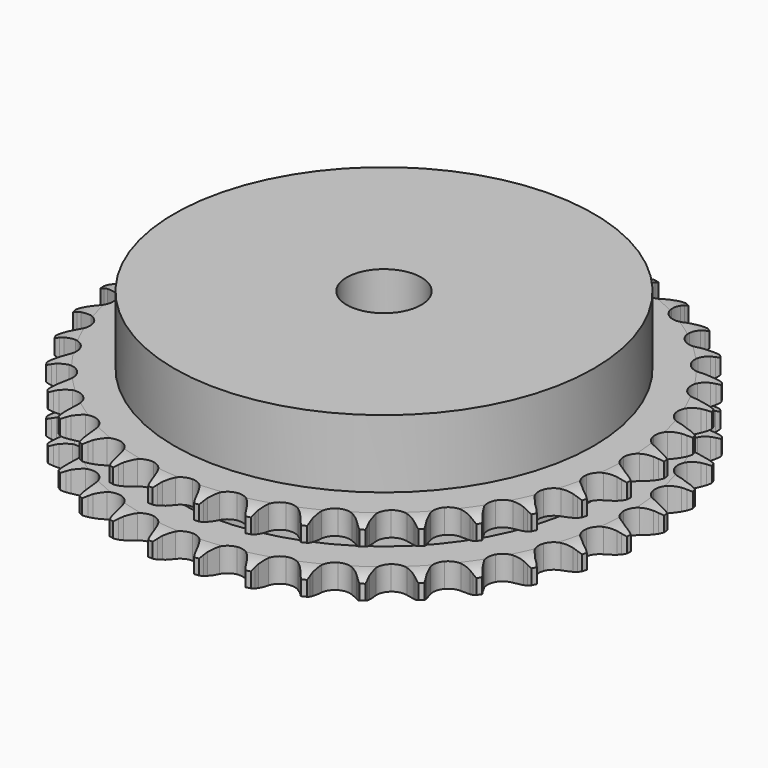
from build123d import *

# Parameters (mm, degrees)
PAD_DEPTH         = 15.4
SKETCH001_R       = 45
PAD001_DEPTH      = 30
SKETCH002_R       = 8
POCKET_DEPTH      = 0.001
POCKET_DEPTH_BACK = 30.001


with BuildPart() as part:
    # Sprocket → Pad (new body)
    with BuildSketch(Plane.XY):
        with BuildLine():
            ThreePointArc((-5.011548, 57.28225), (-4.445116, 56.509908), (-4.031769, 55.645904))
            Line((-4.031769, 55.645904), (-3.722016, 54.805027))
            ThreePointArc((-3.722016, 54.805027), (-3.231124, 53.719507), (-2.590036, 52.715349))
            ThreePointArc((-2.590036, 52.715349), (-1.449161, 51.758042), (0, 51.414584))
            ThreePointArc((0, 51.414584), (1.449161, 51.758042), (2.590036, 52.715349))
            ThreePointArc((2.590036, 52.715349), (3.231124, 53.719507), (3.722016, 54.805027))
            Line((3.722016, 54.805027), (4.031769, 55.645904))
            ThreePointArc((4.031769, 55.645904), (4.445116, 56.509908), (5.011548, 57.28225))
            ThreePointArc((5.011548, 57.28225), (5.435258, 56.423282), (5.692293, 55.500627))
            Line((5.692293, 55.500627), (5.851323, 54.618736))
            ThreePointArc((5.851323, 54.618736), (6.146258, 53.464466), (6.603237, 52.36424))
            ThreePointArc((6.603237, 52.36424), (7.560544, 51.223365), (8.928049, 50.633481))
            ThreePointArc((8.928049, 50.633481), (10.414835, 50.720077), (11.704612, 51.46473))
            Line((11.704612, 51.46473), (13.182263, 53.326094))
            ThreePointArc((13.182263, 53.326094), (13.397349, 53.719336), (13.633327, 54.100408))
            ThreePointArc((13.633327, 54.100408), (14.190427, 54.879509), (14.882369, 55.541758))
            ThreePointArc((14.882369, 55.541758), (15.150484, 54.622262), (15.243397, 53.668991))
            Line((15.243397, 53.668991), (15.246872, 52.772884))
            ThreePointArc((15.246872, 52.772884), (15.33689, 51.584934), (15.595874, 50.422069))
            ThreePointArc((15.595874, 50.422069), (16.340527, 49.132292), (17.584824, 48.313905))
            ThreePointArc((17.584824, 48.313905), (19.064059, 48.141008), (20.463549, 48.65038))
            Line((20.463549, 48.65038), (22.241974, 50.226875))
            ThreePointArc((22.241974, 50.226875), (22.522078, 50.576794), (22.820643, 50.911099))
            ThreePointArc((22.820643, 50.911099), (23.504569, 51.581624), (24.300998, 52.113658))
            ThreePointArc((24.300998, 52.113658), (24.405371, 51.161574), (24.331338, 50.206651))
            Line((24.331338, 50.206651), (24.179153, 49.323553))
            ThreePointArc((24.179153, 49.323553), (24.061518, 48.13802), (24.114638, 46.947849))
            ThreePointArc((24.114638, 46.947849), (24.62401, 45.54836), (25.707292, 44.526336))
            ThreePointArc((25.707292, 44.526336), (27.134031, 44.099198), (28.600711, 44.357814))
            Line((28.600711, 44.357814), (30.625874, 45.601537))
            ThreePointArc((30.625874, 45.601537), (30.962485, 45.897501), (31.314566, 46.174882))
            ThreePointArc((31.314566, 46.174882), (32.104537, 46.716458), (32.981253, 47.10211))
            ThreePointArc((32.981253, 47.10211), (32.918712, 46.146366), (32.679983, 45.218806))
            Line((32.679983, 45.218806), (32.376763, 44.375552))
            ThreePointArc((32.376763, 44.375552), (32.055049, 43.228457), (31.900691, 42.047143))
            ThreePointArc((31.900691, 42.047143), (32.159306, 40.580463), (33.048658, 39.385857))
            ThreePointArc((33.048658, 39.385857), (34.37955, 38.717457), (35.868856, 38.717457))
            Line((35.868856, 38.717457), (38.079222, 39.59062))
            ThreePointArc((38.079222, 39.59062), (38.462113, 39.823636), (38.857012, 40.035664))
            ThreePointArc((38.857012, 40.035664), (39.729025, 40.431836), (40.659389, 40.659389))
            ThreePointArc((40.659389, 40.659389), (40.431836, 39.729025), (40.035664, 38.857012))
            Line((40.035664, 38.857012), (39.59062, 38.079222))
            ThreePointArc((39.59062, 38.079222), (39.074603, 37.005418), (38.717457, 35.868856))
            ThreePointArc((38.717457, 35.868856), (38.717457, 34.37955), (39.385857, 33.048658))
            ThreePointArc((39.385857, 33.048658), (40.580463, 32.159306), (42.047143, 31.900691))
            Line((42.047143, 31.900691), (44.375552, 32.376763))
            ThreePointArc((44.375552, 32.376763), (44.793088, 32.539749), (45.218806, 32.679983))
            ThreePointArc((45.218806, 32.679983), (46.146366, 32.918712), (47.10211, 32.981253))
            ThreePointArc((47.10211, 32.981253), (46.716458, 32.104537), (46.174882, 31.314566))
            Line((46.174882, 31.314566), (45.601537, 30.625874))
            ThreePointArc((45.601537, 30.625874), (44.906895, 29.657989), (44.357814, 28.600711))
            ThreePointArc((44.357814, 28.600711), (44.099198, 27.134031), (44.526336, 25.707292))
            ThreePointArc((44.526336, 25.707292), (45.54836, 24.62401), (46.947849, 24.114638))
            Line((46.947849, 24.114638), (49.323553, 24.179153))
            ThreePointArc((49.323553, 24.179153), (49.763049, 24.267159), (50.206651, 24.331338))
            ThreePointArc((50.206651, 24.331338), (51.161574, 24.405371), (52.113658, 24.300998))
            ThreePointArc((52.113658, 24.300998), (51.581624, 23.504569), (50.911099, 22.820643))
            Line((50.911099, 22.820643), (50.226875, 22.241974))
            ThreePointArc((50.226875, 22.241974), (49.374715, 21.409417), (48.65038, 20.463549))
            ThreePointArc((48.65038, 20.463549), (48.141008, 19.064059), (48.313905, 17.584824))
            ThreePointArc((48.313905, 17.584824), (49.132292, 16.340527), (50.422069, 15.595874))
            Line((50.422069, 15.595874), (52.772884, 15.246872))
            ThreePointArc((52.772884, 15.246872), (53.220984, 15.257224), (53.668991, 15.243397))
            ThreePointArc((53.668991, 15.243397), (54.622262, 15.150484), (55.541758, 14.882369))
            ThreePointArc((55.541758, 14.882369), (54.879509, 14.190427), (54.100408, 13.633327))
            Line((54.100408, 13.633327), (53.326094, 13.182263))
            ThreePointArc((53.326094, 13.182263), (52.342308, 12.510331), (51.46473, 11.704612))
            ThreePointArc((51.46473, 11.704612), (50.720077, 10.414835), (50.633481, 8.928049))
            ThreePointArc((50.633481, 8.928049), (51.223365, 7.560544), (52.36424, 6.603237))
            Line((52.36424, 6.603237), (54.618736, 5.851323))
            ThreePointArc((54.618736, 5.851323), (55.061827, 5.783705), (55.500627, 5.692293))
            ThreePointArc((55.500627, 5.692293), (56.423282, 5.435258), (57.28225, 5.011548))
            ThreePointArc((57.28225, 5.011548), (56.509908, 4.445116), (55.645904, 4.031769))
            Line((55.645904, 4.031769), (54.805027, 3.722016))
            ThreePointArc((54.805027, 3.722016), (53.719507, 3.231124), (52.715349, 2.590036))
            ThreePointArc((52.715349, 2.590036), (51.758042, 1.449161), (51.414584, 0))
            ThreePointArc((51.414584, 0), (51.758042, -1.449161), (52.715349, -2.590036))
            Line((52.715349, -2.590036), (54.805027, -3.722016))
            ThreePointArc((54.805027, -3.722016), (55.229644, -3.865548), (55.645904, -4.031769))
            ThreePointArc((55.645904, -4.031769), (56.509908, -4.445116), (57.28225, -5.011548))
            ThreePointArc((57.28225, -5.011548), (56.423282, -5.435258), (55.500627, -5.692293))
            Line((55.500627, -5.692293), (54.618736, -5.851323))
            ThreePointArc((54.618736, -5.851323), (53.464466, -6.146258), (52.36424, -6.603237))
            ThreePointArc((52.36424, -6.603237), (51.223365, -7.560544), (50.633481, -8.928049))
            ThreePointArc((50.633481, -8.928049), (50.720077, -10.414835), (51.46473, -11.704612))
            Line((51.46473, -11.704612), (53.326094, -13.182263))
            ThreePointArc((53.326094, -13.182263), (53.719336, -13.397349), (54.100408, -13.633327))
            ThreePointArc((54.100408, -13.633327), (54.879509, -14.190427), (55.541758, -14.882369))
            ThreePointArc((55.541758, -14.882369), (54.622262, -15.150484), (53.668991, -15.243397))
            Line((53.668991, -15.243397), (52.772884, -15.246872))
            ThreePointArc((52.772884, -15.246872), (51.584934, -15.33689), (50.422069, -15.595874))
            ThreePointArc((50.422069, -15.595874), (49.132292, -16.340527), (48.313905, -17.584824))
            ThreePointArc((48.313905, -17.584824), (48.141008, -19.064059), (48.65038, -20.463549))
            Line((48.65038, -20.463549), (50.226875, -22.241974))
            ThreePointArc((50.226875, -22.241974), (50.576794, -22.522078), (50.911099, -22.820643))
            ThreePointArc((50.911099, -22.820643), (51.581624, -23.504569), (52.113658, -24.300998))
            ThreePointArc((52.113658, -24.300998), (51.161574, -24.405371), (50.206651, -24.331338))
            Line((50.206651, -24.331338), (49.323553, -24.179153))
            ThreePointArc((49.323553, -24.179153), (48.13802, -24.061518), (46.947849, -24.114638))
            ThreePointArc((46.947849, -24.114638), (45.54836, -24.62401), (44.526336, -25.707292))
            ThreePointArc((44.526336, -25.707292), (44.099198, -27.134031), (44.357814, -28.600711))
            Line((44.357814, -28.600711), (45.601537, -30.625874))
            ThreePointArc((45.601537, -30.625874), (45.897501, -30.962485), (46.174882, -31.314566))
            ThreePointArc((46.174882, -31.314566), (46.716458, -32.104537), (47.10211, -32.981253))
            ThreePointArc((47.10211, -32.981253), (46.146366, -32.918712), (45.218806, -32.679983))
            Line((45.218806, -32.679983), (44.375552, -32.376763))
            ThreePointArc((44.375552, -32.376763), (43.228457, -32.055049), (42.047143, -31.900691))
            ThreePointArc((42.047143, -31.900691), (40.580463, -32.159306), (39.385857, -33.048658))
            ThreePointArc((39.385857, -33.048658), (38.717457, -34.37955), (38.717457, -35.868856))
            Line((38.717457, -35.868856), (39.59062, -38.079222))
            ThreePointArc((39.59062, -38.079222), (39.823636, -38.462113), (40.035664, -38.857012))
            ThreePointArc((40.035664, -38.857012), (40.431836, -39.729025), (40.659389, -40.659389))
            ThreePointArc((40.659389, -40.659389), (39.729025, -40.431836), (38.857012, -40.035664))
            Line((38.857012, -40.035664), (38.079222, -39.59062))
            ThreePointArc((38.079222, -39.59062), (37.005418, -39.074603), (35.868856, -38.717457))
            ThreePointArc((35.868856, -38.717457), (34.37955, -38.717457), (33.048658, -39.385857))
            ThreePointArc((33.048658, -39.385857), (32.159306, -40.580463), (31.900691, -42.047143))
            Line((31.900691, -42.047143), (32.376763, -44.375552))
            ThreePointArc((32.376763, -44.375552), (32.539749, -44.793088), (32.679983, -45.218806))
            ThreePointArc((32.679983, -45.218806), (32.918712, -46.146366), (32.981253, -47.10211))
            ThreePointArc((32.981253, -47.10211), (32.104537, -46.716458), (31.314566, -46.174882))
            Line((31.314566, -46.174882), (30.625874, -45.601537))
            ThreePointArc((30.625874, -45.601537), (29.657989, -44.906895), (28.600711, -44.357814))
            ThreePointArc((28.600711, -44.357814), (27.134031, -44.099198), (25.707292, -44.526336))
            ThreePointArc((25.707292, -44.526336), (24.62401, -45.54836), (24.114638, -46.947849))
            Line((24.114638, -46.947849), (24.179153, -49.323553))
            ThreePointArc((24.179153, -49.323553), (24.267159, -49.763049), (24.331338, -50.206651))
            ThreePointArc((24.331338, -50.206651), (24.405371, -51.161574), (24.300998, -52.113658))
            ThreePointArc((24.300998, -52.113658), (23.504569, -51.581624), (22.820643, -50.911099))
            Line((22.820643, -50.911099), (22.241974, -50.226875))
            ThreePointArc((22.241974, -50.226875), (21.409417, -49.374715), (20.463549, -48.65038))
            ThreePointArc((20.463549, -48.65038), (19.064059, -48.141008), (17.584824, -48.313905))
            ThreePointArc((17.584824, -48.313905), (16.340527, -49.132292), (15.595874, -50.422069))
            Line((15.595874, -50.422069), (15.246872, -52.772884))
            ThreePointArc((15.246872, -52.772884), (15.257224, -53.220984), (15.243397, -53.668991))
            ThreePointArc((15.243397, -53.668991), (15.150484, -54.622262), (14.882369, -55.541758))
            ThreePointArc((14.882369, -55.541758), (14.190427, -54.879509), (13.633327, -54.100408))
            Line((13.633327, -54.100408), (13.182263, -53.326094))
            ThreePointArc((13.182263, -53.326094), (12.510331, -52.342308), (11.704612, -51.46473))
            ThreePointArc((11.704612, -51.46473), (10.414835, -50.720077), (8.928049, -50.633481))
            ThreePointArc((8.928049, -50.633481), (7.560544, -51.223365), (6.603237, -52.36424))
            Line((6.603237, -52.36424), (5.851323, -54.618736))
            ThreePointArc((5.851323, -54.618736), (5.783705, -55.061827), (5.692293, -55.500627))
            ThreePointArc((5.692293, -55.500627), (5.435258, -56.423282), (5.011548, -57.28225))
            ThreePointArc((5.011548, -57.28225), (4.445116, -56.509908), (4.031769, -55.645904))
            Line((4.031769, -55.645904), (3.722016, -54.805027))
            ThreePointArc((3.722016, -54.805027), (3.231124, -53.719507), (2.590036, -52.715349))
            ThreePointArc((2.590036, -52.715349), (1.449161, -51.758042), (0, -51.414584))
            ThreePointArc((0, -51.414584), (-1.449161, -51.758042), (-2.590036, -52.715349))
            Line((-2.590036, -52.715349), (-3.722016, -54.805027))
            ThreePointArc((-3.722016, -54.805027), (-3.865548, -55.229644), (-4.031769, -55.645904))
            ThreePointArc((-4.031769, -55.645904), (-4.445116, -56.509908), (-5.011548, -57.28225))
            ThreePointArc((-5.011548, -57.28225), (-5.435258, -56.423282), (-5.692293, -55.500627))
            Line((-5.692293, -55.500627), (-5.851323, -54.618736))
            ThreePointArc((-5.851323, -54.618736), (-6.146258, -53.464466), (-6.603237, -52.36424))
            ThreePointArc((-6.603237, -52.36424), (-7.560544, -51.223365), (-8.928049, -50.633481))
            ThreePointArc((-8.928049, -50.633481), (-10.414835, -50.720077), (-11.704612, -51.46473))
            Line((-11.704612, -51.46473), (-13.182263, -53.326094))
            ThreePointArc((-13.182263, -53.326094), (-13.397349, -53.719336), (-13.633327, -54.100408))
            ThreePointArc((-13.633327, -54.100408), (-14.190427, -54.879509), (-14.882369, -55.541758))
            ThreePointArc((-14.882369, -55.541758), (-15.150484, -54.622262), (-15.243397, -53.668991))
            Line((-15.243397, -53.668991), (-15.246872, -52.772884))
            ThreePointArc((-15.246872, -52.772884), (-15.33689, -51.584934), (-15.595874, -50.422069))
            ThreePointArc((-15.595874, -50.422069), (-16.340527, -49.132292), (-17.584824, -48.313905))
            ThreePointArc((-17.584824, -48.313905), (-19.064059, -48.141008), (-20.463549, -48.65038))
            Line((-20.463549, -48.65038), (-22.241974, -50.226875))
            ThreePointArc((-22.241974, -50.226875), (-22.522078, -50.576794), (-22.820643, -50.911099))
            ThreePointArc((-22.820643, -50.911099), (-23.504569, -51.581624), (-24.300998, -52.113658))
            ThreePointArc((-24.300998, -52.113658), (-24.405371, -51.161574), (-24.331338, -50.206651))
            Line((-24.331338, -50.206651), (-24.179153, -49.323553))
            ThreePointArc((-24.179153, -49.323553), (-24.061518, -48.13802), (-24.114638, -46.947849))
            ThreePointArc((-24.114638, -46.947849), (-24.62401, -45.54836), (-25.707292, -44.526336))
            ThreePointArc((-25.707292, -44.526336), (-27.134031, -44.099198), (-28.600711, -44.357814))
            Line((-28.600711, -44.357814), (-30.625874, -45.601537))
            ThreePointArc((-30.625874, -45.601537), (-30.962485, -45.897501), (-31.314566, -46.174882))
            ThreePointArc((-31.314566, -46.174882), (-32.104537, -46.716458), (-32.981253, -47.10211))
            ThreePointArc((-32.981253, -47.10211), (-32.918712, -46.146366), (-32.679983, -45.218806))
            Line((-32.679983, -45.218806), (-32.376763, -44.375552))
            ThreePointArc((-32.376763, -44.375552), (-32.055049, -43.228457), (-31.900691, -42.047143))
            ThreePointArc((-31.900691, -42.047143), (-32.159306, -40.580463), (-33.048658, -39.385857))
            ThreePointArc((-33.048658, -39.385857), (-34.37955, -38.717457), (-35.868856, -38.717457))
            Line((-35.868856, -38.717457), (-38.079222, -39.59062))
            ThreePointArc((-38.079222, -39.59062), (-38.462113, -39.823636), (-38.857012, -40.035664))
            ThreePointArc((-38.857012, -40.035664), (-39.729025, -40.431836), (-40.659389, -40.659389))
            ThreePointArc((-40.659389, -40.659389), (-40.431836, -39.729025), (-40.035664, -38.857012))
            Line((-40.035664, -38.857012), (-39.59062, -38.079222))
            ThreePointArc((-39.59062, -38.079222), (-39.074603, -37.005418), (-38.717457, -35.868856))
            ThreePointArc((-38.717457, -35.868856), (-38.717457, -34.37955), (-39.385857, -33.048658))
            ThreePointArc((-39.385857, -33.048658), (-40.580463, -32.159306), (-42.047143, -31.900691))
            Line((-42.047143, -31.900691), (-44.375552, -32.376763))
            ThreePointArc((-44.375552, -32.376763), (-44.793088, -32.539749), (-45.218806, -32.679983))
            ThreePointArc((-45.218806, -32.679983), (-46.146366, -32.918712), (-47.10211, -32.981253))
            ThreePointArc((-47.10211, -32.981253), (-46.716458, -32.104537), (-46.174882, -31.314566))
            Line((-46.174882, -31.314566), (-45.601537, -30.625874))
            ThreePointArc((-45.601537, -30.625874), (-44.906895, -29.657989), (-44.357814, -28.600711))
            ThreePointArc((-44.357814, -28.600711), (-44.099198, -27.134031), (-44.526336, -25.707292))
            ThreePointArc((-44.526336, -25.707292), (-45.54836, -24.62401), (-46.947849, -24.114638))
            Line((-46.947849, -24.114638), (-49.323553, -24.179153))
            ThreePointArc((-49.323553, -24.179153), (-49.763049, -24.267159), (-50.206651, -24.331338))
            ThreePointArc((-50.206651, -24.331338), (-51.161574, -24.405371), (-52.113658, -24.300998))
            ThreePointArc((-52.113658, -24.300998), (-51.581624, -23.504569), (-50.911099, -22.820643))
            Line((-50.911099, -22.820643), (-50.226875, -22.241974))
            ThreePointArc((-50.226875, -22.241974), (-49.374715, -21.409417), (-48.65038, -20.463549))
            ThreePointArc((-48.65038, -20.463549), (-48.141008, -19.064059), (-48.313905, -17.584824))
            ThreePointArc((-48.313905, -17.584824), (-49.132292, -16.340527), (-50.422069, -15.595874))
            Line((-50.422069, -15.595874), (-52.772884, -15.246872))
            ThreePointArc((-52.772884, -15.246872), (-53.220984, -15.257224), (-53.668991, -15.243397))
            ThreePointArc((-53.668991, -15.243397), (-54.622262, -15.150484), (-55.541758, -14.882369))
            ThreePointArc((-55.541758, -14.882369), (-54.879509, -14.190427), (-54.100408, -13.633327))
            Line((-54.100408, -13.633327), (-53.326094, -13.182263))
            ThreePointArc((-53.326094, -13.182263), (-52.342308, -12.510331), (-51.46473, -11.704612))
            ThreePointArc((-51.46473, -11.704612), (-50.720077, -10.414835), (-50.633481, -8.928049))
            ThreePointArc((-50.633481, -8.928049), (-51.223365, -7.560544), (-52.36424, -6.603237))
            Line((-52.36424, -6.603237), (-54.618736, -5.851323))
            ThreePointArc((-54.618736, -5.851323), (-55.061827, -5.783705), (-55.500627, -5.692293))
            ThreePointArc((-55.500627, -5.692293), (-56.423282, -5.435258), (-57.28225, -5.011548))
            ThreePointArc((-57.28225, -5.011548), (-56.509908, -4.445116), (-55.645904, -4.031769))
            Line((-55.645904, -4.031769), (-54.805027, -3.722016))
            ThreePointArc((-54.805027, -3.722016), (-53.719507, -3.231124), (-52.715349, -2.590036))
            ThreePointArc((-52.715349, -2.590036), (-51.758042, -1.449161), (-51.414584, 0))
            ThreePointArc((-51.414584, 0), (-51.758042, 1.449161), (-52.715349, 2.590036))
            Line((-52.715349, 2.590036), (-54.805027, 3.722016))
            ThreePointArc((-54.805027, 3.722016), (-55.229644, 3.865548), (-55.645904, 4.031769))
            ThreePointArc((-55.645904, 4.031769), (-56.509908, 4.445116), (-57.28225, 5.011548))
            ThreePointArc((-57.28225, 5.011548), (-56.423282, 5.435258), (-55.500627, 5.692293))
            Line((-55.500627, 5.692293), (-54.618736, 5.851323))
            ThreePointArc((-54.618736, 5.851323), (-53.464466, 6.146258), (-52.36424, 6.603237))
            ThreePointArc((-52.36424, 6.603237), (-51.223365, 7.560544), (-50.633481, 8.928049))
            ThreePointArc((-50.633481, 8.928049), (-50.720077, 10.414835), (-51.46473, 11.704612))
            Line((-51.46473, 11.704612), (-53.326094, 13.182263))
            ThreePointArc((-53.326094, 13.182263), (-53.719336, 13.397349), (-54.100408, 13.633327))
            ThreePointArc((-54.100408, 13.633327), (-54.879509, 14.190427), (-55.541758, 14.882369))
            ThreePointArc((-55.541758, 14.882369), (-54.622262, 15.150484), (-53.668991, 15.243397))
            Line((-53.668991, 15.243397), (-52.772884, 15.246872))
            ThreePointArc((-52.772884, 15.246872), (-51.584934, 15.33689), (-50.422069, 15.595874))
            ThreePointArc((-50.422069, 15.595874), (-49.132292, 16.340527), (-48.313905, 17.584824))
            ThreePointArc((-48.313905, 17.584824), (-48.141008, 19.064059), (-48.65038, 20.463549))
            Line((-48.65038, 20.463549), (-50.226875, 22.241974))
            ThreePointArc((-50.226875, 22.241974), (-50.576794, 22.522078), (-50.911099, 22.820643))
            ThreePointArc((-50.911099, 22.820643), (-51.581624, 23.504569), (-52.113658, 24.300998))
            ThreePointArc((-52.113658, 24.300998), (-51.161574, 24.405371), (-50.206651, 24.331338))
            Line((-50.206651, 24.331338), (-49.323553, 24.179153))
            ThreePointArc((-49.323553, 24.179153), (-48.13802, 24.061518), (-46.947849, 24.114638))
            ThreePointArc((-46.947849, 24.114638), (-45.54836, 24.62401), (-44.526336, 25.707292))
            ThreePointArc((-44.526336, 25.707292), (-44.099198, 27.134031), (-44.357814, 28.600711))
            Line((-44.357814, 28.600711), (-45.601537, 30.625874))
            ThreePointArc((-45.601537, 30.625874), (-45.897501, 30.962485), (-46.174882, 31.314566))
            ThreePointArc((-46.174882, 31.314566), (-46.716458, 32.104537), (-47.10211, 32.981253))
            ThreePointArc((-47.10211, 32.981253), (-46.146366, 32.918712), (-45.218806, 32.679983))
            Line((-45.218806, 32.679983), (-44.375552, 32.376763))
            ThreePointArc((-44.375552, 32.376763), (-43.228457, 32.055049), (-42.047143, 31.900691))
            ThreePointArc((-42.047143, 31.900691), (-40.580463, 32.159306), (-39.385857, 33.048658))
            ThreePointArc((-39.385857, 33.048658), (-38.717457, 34.37955), (-38.717457, 35.868856))
            Line((-38.717457, 35.868856), (-39.59062, 38.079222))
            ThreePointArc((-39.59062, 38.079222), (-39.823636, 38.462113), (-40.035664, 38.857012))
            ThreePointArc((-40.035664, 38.857012), (-40.431836, 39.729025), (-40.659389, 40.659389))
            ThreePointArc((-40.659389, 40.659389), (-39.729025, 40.431836), (-38.857012, 40.035664))
            Line((-38.857012, 40.035664), (-38.079222, 39.59062))
            ThreePointArc((-38.079222, 39.59062), (-37.005418, 39.074603), (-35.868856, 38.717457))
            ThreePointArc((-35.868856, 38.717457), (-34.37955, 38.717457), (-33.048658, 39.385857))
            ThreePointArc((-33.048658, 39.385857), (-32.159306, 40.580463), (-31.900691, 42.047143))
            Line((-31.900691, 42.047143), (-32.376763, 44.375552))
            ThreePointArc((-32.376763, 44.375552), (-32.539749, 44.793088), (-32.679983, 45.218806))
            ThreePointArc((-32.679983, 45.218806), (-32.918712, 46.146366), (-32.981253, 47.10211))
            ThreePointArc((-32.981253, 47.10211), (-32.104537, 46.716458), (-31.314566, 46.174882))
            Line((-31.314566, 46.174882), (-30.625874, 45.601537))
            ThreePointArc((-30.625874, 45.601537), (-29.657989, 44.906895), (-28.600711, 44.357814))
            ThreePointArc((-28.600711, 44.357814), (-27.134031, 44.099198), (-25.707292, 44.526336))
            ThreePointArc((-25.707292, 44.526336), (-24.62401, 45.54836), (-24.114638, 46.947849))
            Line((-24.114638, 46.947849), (-24.179153, 49.323553))
            ThreePointArc((-24.179153, 49.323553), (-24.267159, 49.763049), (-24.331338, 50.206651))
            ThreePointArc((-24.331338, 50.206651), (-24.405371, 51.161574), (-24.300998, 52.113658))
            ThreePointArc((-24.300998, 52.113658), (-23.504569, 51.581624), (-22.820643, 50.911099))
            Line((-22.820643, 50.911099), (-22.241974, 50.226875))
            ThreePointArc((-22.241974, 50.226875), (-21.409417, 49.374715), (-20.463549, 48.65038))
            ThreePointArc((-20.463549, 48.65038), (-19.064059, 48.141008), (-17.584824, 48.313905))
            ThreePointArc((-17.584824, 48.313905), (-16.340527, 49.132292), (-15.595874, 50.422069))
            Line((-15.595874, 50.422069), (-15.246872, 52.772884))
            ThreePointArc((-15.246872, 52.772884), (-15.257224, 53.220984), (-15.243397, 53.668991))
            ThreePointArc((-15.243397, 53.668991), (-15.150484, 54.622262), (-14.882369, 55.541758))
            ThreePointArc((-14.882369, 55.541758), (-14.190427, 54.879509), (-13.633327, 54.100408))
            Line((-13.633327, 54.100408), (-13.182263, 53.326094))
            ThreePointArc((-13.182263, 53.326094), (-12.510331, 52.342308), (-11.704612, 51.46473))
            ThreePointArc((-11.704612, 51.46473), (-10.414835, 50.720077), (-8.928049, 50.633481))
            ThreePointArc((-8.928049, 50.633481), (-7.560544, 51.223365), (-6.603237, 52.36424))
            Line((-6.603237, 52.36424), (-5.851323, 54.618736))
            ThreePointArc((-5.851323, 54.618736), (-5.783705, 55.061827), (-5.692293, 55.500627))
            ThreePointArc((-5.692293, 55.500627), (-5.435258, 56.423282), (-5.011548, 57.28225))
        make_face()
    extrude(amount=PAD_DEPTH)

    # Sketch → Groove (revolve, cut)
    with BuildSketch(Plane.XZ):
        with BuildLine():
            ThreePointArc((52.341101, 0), (54.577169, 0.253206), (56.7, 1))
            Line((56.7, 1), (56.7, 4.2))
            ThreePointArc((56.7, 4.2), (54.577169, 4.946794), (52.341101, 5.2))
            Line((45, 5.2), (52.341101, 5.2))
            Line((45, 10.2), (45, 5.2))
            Line((52.341101, 10.2), (45, 10.2))
            ThreePointArc((52.341101, 10.2), (54.577169, 10.453206), (56.7, 11.2))
            Line((56.7, 11.2), (56.7, 14.4))
            ThreePointArc((56.7, 14.4), (54.577169, 15.146794), (52.341101, 15.4))
            Line((52.341101, 15.4), (62.341101, 15.4))
            Line((62.341101, 15.4), (62.341101, 0))
            Line((52.341101, 0), (62.341101, 0))
        make_face()
    revolve(axis=Axis((0, 0, 0), (0, 0, 1)), mode=Mode.SUBTRACT)

    # Sketch001 → Pad001 (join)
    with BuildSketch(Plane.XY):
        Circle(SKETCH001_R)
    extrude(amount=PAD001_DEPTH)

    # Sketch002 → Pocket (cut, two sides)
    with BuildSketch(Plane.XY) as pocket_sk:
        Circle(SKETCH002_R)
    extrude(amount=-POCKET_DEPTH, mode=Mode.SUBTRACT)
    extrude(pocket_sk.sketch, amount=POCKET_DEPTH_BACK, mode=Mode.SUBTRACT)


solid = part.part
